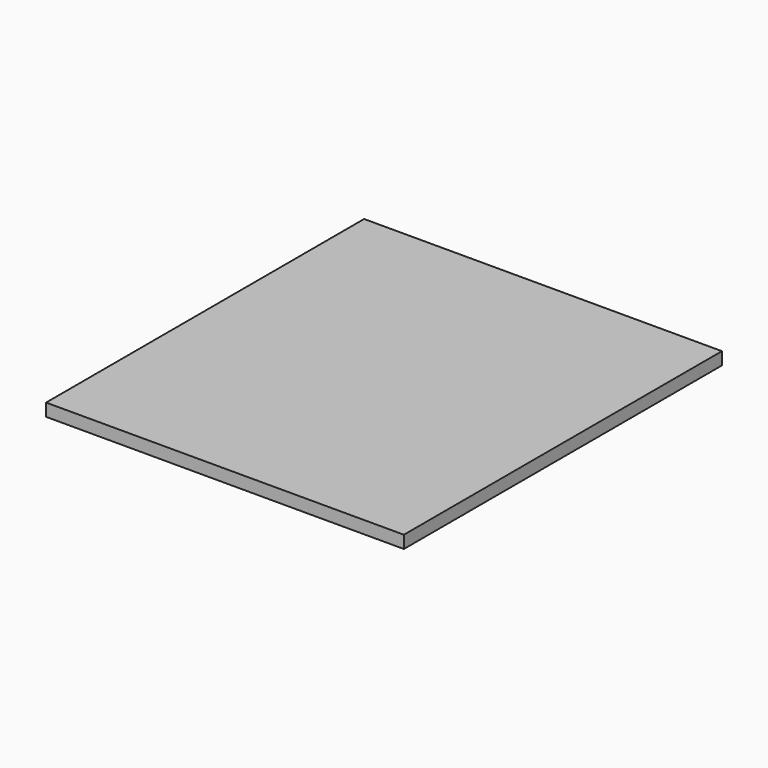
from build123d import *

# Parameters (mm, degrees)
SKETCH_W  = 540
SKETCH_H  = 600
PAD_DEPTH = 19


with BuildPart() as part:
    # Sketch → Pad (new body)
    with BuildSketch(Plane.XY):
        Rectangle(SKETCH_W, SKETCH_H)
    extrude(amount=PAD_DEPTH)


solid = part.part
